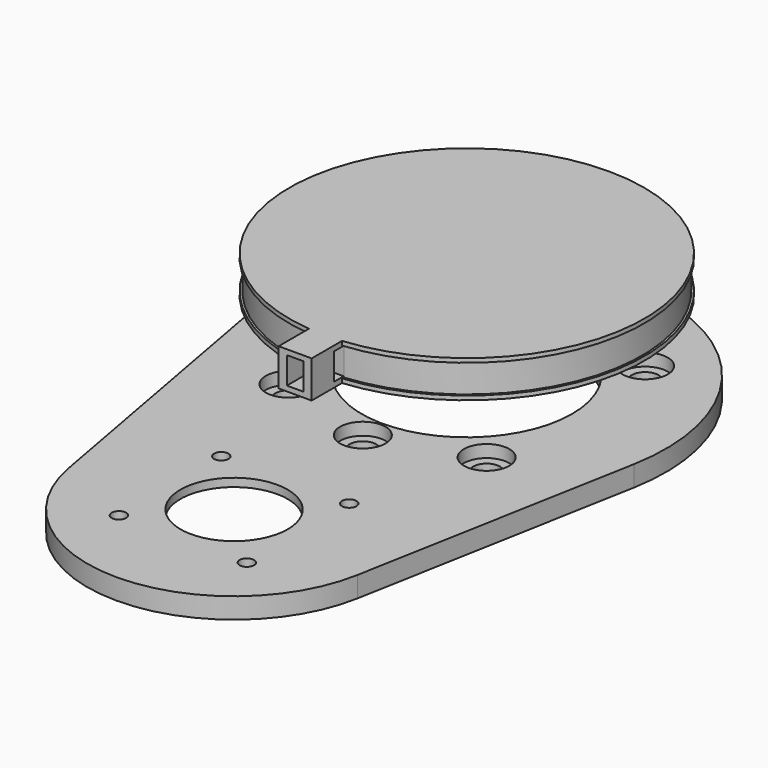
from build123d import *

# Parameters (mm, degrees)
SKETCH_R             = 25.5
SKETCH_R_2           = 3.25
PAD_DEPTH            = 5
SKETCH005_R          = 5.5
POCKET001_DEPTH      = 5
SKETCH007_R          = 1.75
SKETCH007_R_2        = 13
POCKET003_DEPTH      = 5.001
SKETCH009_W          = 52
SKETCH009_H          = 45
POCKET006_DEPTH      = 3
SKETCH001_W          = 25.5
SKETCH001_H          = 30.5
SKETCH001_W_2        = 17.5
SKETCH001_H_2        = 22.5
PAD001_DEPTH         = 20
SKETCH002_R          = 3.25
POCKET_DEPTH         = 12.751
POCKET_DEPTH_BACK    = 12.751
SKETCH003_R          = 43
PAD002_DEPTH         = 1
SKETCH004_R          = 43
PAD004_DEPTH         = 1
SKETCH010_R          = 42.5
PAD005_DEPTH         = 8
PAD005_FACE20_W      = 22.5
PAD005_FACE20_H      = 17.5
POCKET007_DEPTH      = 5
SKETCH011_W          = 8
SKETCH011_H          = 9
PAD006_DEPTH         = 10
SKETCH013_W          = 3
SKETCH013_H          = 6.5
POCKET008_DEPTH      = 47.001
POCKET008_DEPTH_BACK = 39.001
SKETCH014_W          = 4
SKETCH014_H          = 6.5
POCKET009_DEPTH      = 9


with BuildPart() as mainbody:
    # Sketch → Pad (new body)
    with BuildSketch(Plane.XY):
        with BuildLine():
            ThreePointArc((47.5, -8.70483), (0, 48.291035), (-47.5, -8.70483))
            Line((-47.5, -8.70483), (-35, -76.914086))
            ThreePointArc((-35, -76.914086), (0, -106.082868), (35, -76.914086))
            Line((35, -76.914086), (47.5, -8.70483))
        make_face()
        Circle(SKETCH_R, mode=Mode.SUBTRACT)
        with Locations((-24, 24)):
            Circle(SKETCH_R_2, mode=Mode.SUBTRACT)
        with Locations((0, 31.5)):
            Circle(SKETCH_R_2, mode=Mode.SUBTRACT)
        with Locations((24, 24)):
            Circle(SKETCH_R_2, mode=Mode.SUBTRACT)
        with Locations((0, -31.5)):
            Circle(SKETCH_R_2, mode=Mode.SUBTRACT)
        with Locations((24, -24)):
            Circle(SKETCH_R_2, mode=Mode.SUBTRACT)
        with Locations((-24, -24)):
            Circle(SKETCH_R_2, mode=Mode.SUBTRACT)
    extrude(amount=PAD_DEPTH)

    # Sketch005 → Pocket001 (cut)
    with BuildSketch(Plane.XY.offset(2)):
        with Locations((-24, 24)):
            Circle(SKETCH005_R)
        with Locations((24, -24)):
            Circle(SKETCH005_R)
        with Locations((0, 31.5)):
            Circle(SKETCH005_R)
        with Locations((24, 24)):
            Circle(SKETCH005_R)
        with Locations((-24, -24)):
            Circle(SKETCH005_R)
        with Locations((0, -31.5)):
            Circle(SKETCH005_R)
    extrude(amount=POCKET001_DEPTH, mode=Mode.SUBTRACT)

    # Sketch007 → Pocket003 (cut, through all)
    with BuildSketch(Plane.XY):
        with Locations((-15.5, -55)):
            Circle(SKETCH007_R)
        with Locations((15.5, -55)):
            Circle(SKETCH007_R)
        with Locations((15.5, -86)):
            Circle(SKETCH007_R)
        with Locations((-15.5, -86)):
            Circle(SKETCH007_R)
        with Locations((0, -70.5)):
            Circle(SKETCH007_R_2)
    extrude(amount=POCKET003_DEPTH, mode=Mode.SUBTRACT)

    # Sketch009 → Pocket006 (cut)
    with BuildSketch(Plane.XY):
        with Locations((0, -70.5)):
            Rectangle(SKETCH009_W, SKETCH009_H)
    extrude(amount=POCKET006_DEPTH, mode=Mode.SUBTRACT)


with BuildPart() as gearbody:
    # Sketch001 → Pad001 (new body)
    with BuildSketch(Plane.XY.offset(10)):
        Rectangle(SKETCH001_W, SKETCH001_H)
        Rectangle(SKETCH001_W_2, SKETCH001_H_2, mode=Mode.SUBTRACT)
    extrude(amount=PAD001_DEPTH)

    # Sketch002 → Pocket (cut, two sides)
    with BuildSketch(Plane.YZ) as pocket_sk:
        with Locations((0, 18.5)):
            Circle(SKETCH002_R)
    extrude(amount=-POCKET_DEPTH, mode=Mode.SUBTRACT)
    extrude(pocket_sk.sketch, amount=POCKET_DEPTH_BACK, mode=Mode.SUBTRACT)

    # Sketch003 → Pad002 (join)
    with BuildSketch(Plane.XY.offset(22)):
        Circle(SKETCH003_R)
    extrude(amount=PAD002_DEPTH)

    # Sketch004 → Pad004 (join)
    with BuildSketch(Plane.XY.offset(30)):
        Circle(SKETCH004_R)
    extrude(amount=PAD004_DEPTH)

    # Sketch010 → Pad005 (join)
    with BuildSketch(Plane.XY.offset(23)):
        Circle(SKETCH010_R)
    extrude(amount=PAD005_DEPTH)

    # Pad005 Face20 → Pocket007 (cut)
    with BuildSketch(Plane(origin=(0, 0, 22), x_dir=(0, -1, 0), z_dir=(0, 0, -1))):
        Rectangle(PAD005_FACE20_W, PAD005_FACE20_H)
    extrude(amount=-POCKET007_DEPTH, mode=Mode.SUBTRACT)

    # Sketch011 → Pad006 (join)
    with BuildSketch(Plane.XZ.offset(42)):
        with Locations((0, 26.5)):
            Rectangle(SKETCH011_W, SKETCH011_H)
    extrude(amount=PAD006_DEPTH)

    # Sketch013 (on Face6 of Pad006) → Pocket008 (cut, two sides)
    with BuildSketch(Plane.YZ.offset(4)) as pocket008_sk:
        with Locations((-43.8, 26.5)):
            Rectangle(SKETCH013_W, SKETCH013_H)
    extrude(amount=-POCKET008_DEPTH, mode=Mode.SUBTRACT)
    extrude(pocket008_sk.sketch, amount=POCKET008_DEPTH_BACK, mode=Mode.SUBTRACT)

    # Sketch014 (on Face10 of Pocket008) → Pocket009 (cut)
    with BuildSketch(Plane(origin=(0, -45.3, 0), x_dir=(-1, 0, 0), z_dir=(0, 1, 0))):
        with Locations((0, 26.5)):
            Rectangle(SKETCH014_W, SKETCH014_H)
    extrude(amount=-POCKET009_DEPTH, mode=Mode.SUBTRACT)


solid = Compound([mainbody.part, gearbody.part])
